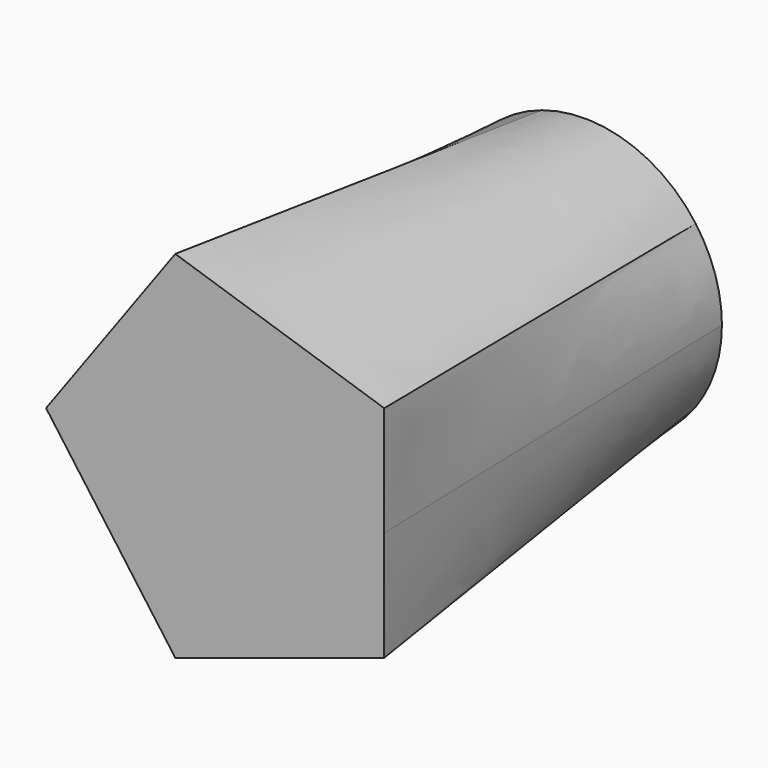
from build123d import *

# Parameters (mm, degrees)
F0_R = 63.5


with BuildPart() as f3:
    # F2 (on offset) → F3 section 0
    with BuildSketch(Plane.XZ.offset(203.2)):
        Polygon((69.9202015599, -50.8), (69.9202015599, 50.8), (-26.7071404957, 82.1961266285), (-86.4261221286, 0), (-26.7071404957, -82.1961266285), align=None)
    # F0 (on Front) → F3 section 1
    with BuildSketch(Plane.XZ):
        Circle(F0_R)
    loft()


solid = f3.part
